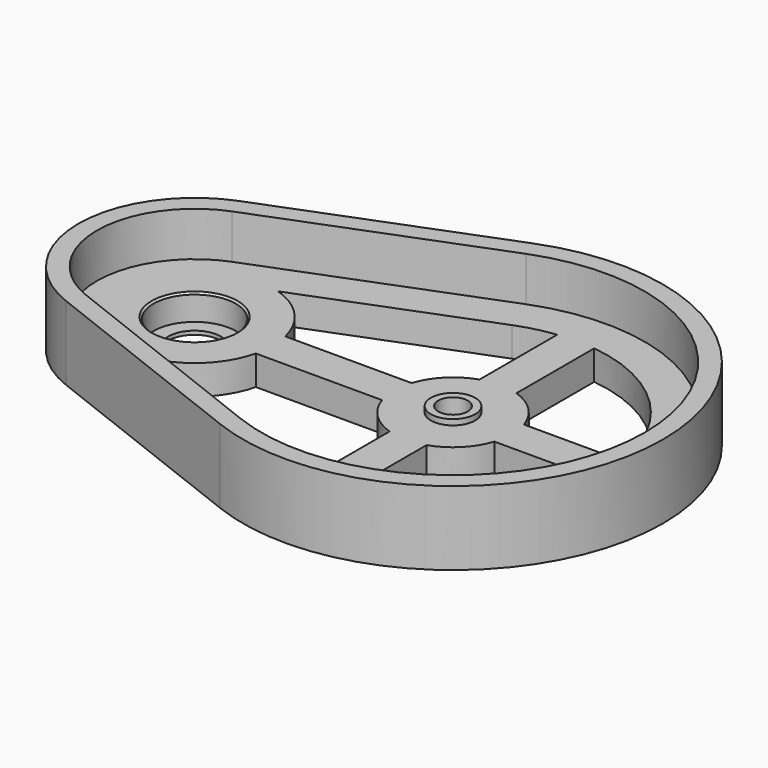
from build123d import *

# Parameters (mm, degrees)
F0_R     = 11.15
F0_R_2   = 4
F1_DEPTH = 8
F0_R_3   = 7.15
F2_DEPTH = 1
F3_SIZE  = 0.5
F4_R     = 6
F4_R_2   = 4
F5_DEPTH = 1.5
F6_DEPTH = 20
F8_DEPTH = 25


with BuildPart() as f1:
    # F0 (on Top) → F1 (new body)
    with BuildSketch(Plane.XY):
        with BuildLine():
            ThreePointArc((14.310229, -52.917293), (91.75, 0), (14.310229, 52.917293))
            Line((14.310229, 52.917293), (-46.360014, 29.253574))
            ThreePointArc((-46.360014, 29.253574), (-66.35, 0), (-46.360014, -29.253574))
            Line((-46.360014, -29.253574), (14.310229, -52.917293))
        make_face()
        with BuildLine():
            Line((-44.543133, 24.595361), (16.12711, 48.25908))
            ThreePointArc((16.12711, 48.25908), (86.75, 0), (16.12711, -48.25908))
            Line((16.12711, -48.25908), (-44.543133, -24.595361))
            ThreePointArc((-44.543133, -24.595361), (-61.35, 0), (-44.543133, 24.595361))
        make_face(mode=Mode.SUBTRACT)
        with BuildLine():
            ThreePointArc((16.12711, -48.25908), (86.75, 0), (16.12711, 48.25908))
            Line((16.12711, 48.25908), (-44.543133, 24.595361))
            ThreePointArc((-44.543133, 24.595361), (-61.35, 0), (-44.543133, -24.595361))
            Line((-44.543133, -24.595361), (16.12711, -48.25908))
        make_face()
        with Locations((-34.95, 0)):
            Circle(F0_R, mode=Mode.SUBTRACT)
        with Locations((34.95, 0)):
            Circle(F0_R_2, mode=Mode.SUBTRACT)
    extrude(amount=F1_DEPTH)

    # F0 (on Top) → F2 (join)
    with BuildSketch(Plane.XY):
        with Locations((-34.95, 0)):
            Circle(F0_R)
        with Locations((-34.95, 0)):
            Circle(F0_R_3, mode=Mode.SUBTRACT)
    extrude(amount=F2_DEPTH)

    # F3
    f3_edges = [f1.edges().sort_by_distance(p)[0] for p in [
        (-46.1, 0, 8),
    ]]
    chamfer(f3_edges, length=F3_SIZE)

    # F4 (on face) → F5 (join)
    with BuildSketch(Plane.XY.offset(8)):
        with Locations((34.95, 0)):
            Circle(F4_R)
        with Locations((34.95, 0)):
            Circle(F4_R_2, mode=Mode.SUBTRACT)
    extrude(amount=F5_DEPTH)

    # F0 (on Top) → F6 (join)
    with BuildSketch(Plane.XY):
        with BuildLine():
            ThreePointArc((14.310229, -52.917293), (91.75, 0), (14.310229, 52.917293))
            Line((14.310229, 52.917293), (-46.360014, 29.253574))
            ThreePointArc((-46.360014, 29.253574), (-66.35, 0), (-46.360014, -29.253574))
            Line((-46.360014, -29.253574), (14.310229, -52.917293))
        make_face()
        with BuildLine():
            Line((-44.543133, 24.595361), (16.12711, 48.25908))
            ThreePointArc((16.12711, 48.25908), (86.75, 0), (16.12711, -48.25908))
            Line((16.12711, -48.25908), (-44.543133, -24.595361))
            ThreePointArc((-44.543133, -24.595361), (-61.35, 0), (-44.543133, 24.595361))
        make_face(mode=Mode.SUBTRACT)
    extrude(amount=F6_DEPTH)

    # F7 (on face) → F8 (cut)
    with BuildSketch(Plane.XY.offset(8)):
        with BuildLine():
            ThreePointArc((29.95, 41.49988), (24.774782, 40.542631), (19.760873, 38.942655))
            Line((19.760873, 38.942655), (-28.467059, 20.131915))
            ThreePointArc((-28.467059, 20.131915), (-19.459834, 14.400599), (-14.399513, 5))
            Line((-14.399513, 5), (19.751316, 5))
            ThreePointArc((19.751316, 5), (23.636292, 11.313708), (29.95, 15.198684))
            Line((29.95, 15.198684), (29.95, 41.49988))
        make_face()
        with BuildLine():
            ThreePointArc((76.44988, 5), (64.507063, 29.557063), (39.95, 41.49988))
            Line((39.95, 41.49988), (39.95, 15.198684))
            ThreePointArc((39.95, 15.198684), (46.263708, 11.313708), (50.148684, 5))
            Line((50.148684, 5), (76.44988, 5))
        make_face()
        with BuildLine():
            Line((19.751316, -5), (-14.399513, -5))
            ThreePointArc((-14.399513, -5), (-19.459834, -14.400599), (-28.467059, -20.131915))
            Line((-28.467059, -20.131915), (19.760873, -38.942655))
            ThreePointArc((19.760873, -38.942655), (24.774782, -40.542631), (29.95, -41.49988))
            Line((29.95, -41.49988), (29.95, -15.198684))
            ThreePointArc((29.95, -15.198684), (23.636292, -11.313708), (19.751316, -5))
        make_face()
        with BuildLine():
            ThreePointArc((39.95, -41.49988), (64.507063, -29.557063), (76.44988, -5))
            Line((76.44988, -5), (50.148684, -5))
            ThreePointArc((50.148684, -5), (46.263708, -11.313708), (39.95, -15.198684))
            Line((39.95, -15.198684), (39.95, -41.49988))
        make_face()
    extrude(amount=-F8_DEPTH, mode=Mode.SUBTRACT)


solid = f1.part
